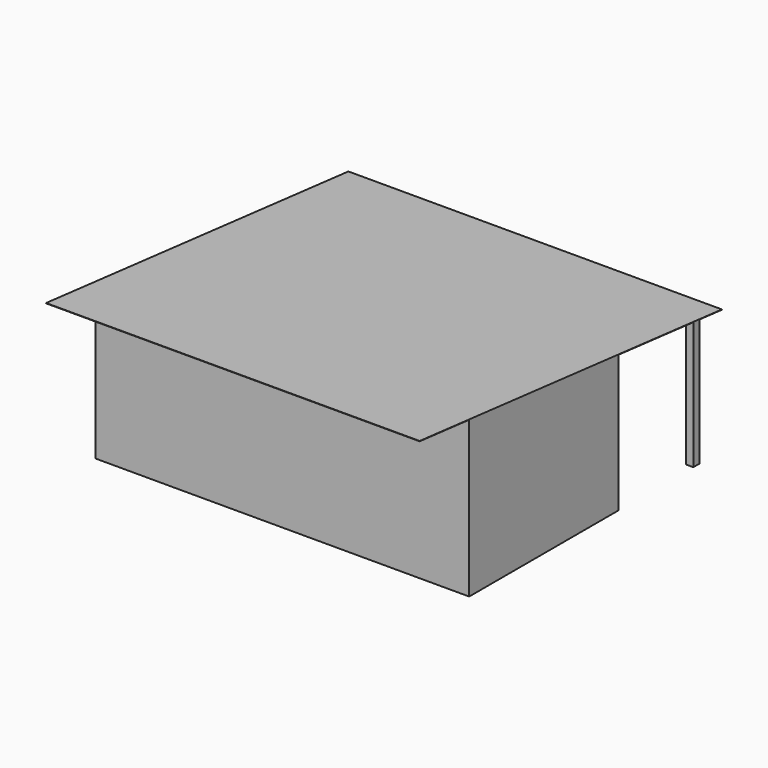
from build123d import *

# Parameters (mm, degrees)
F1_DEPTH = 3000
F2_W     = 2820
F2_H     = 2000
F3_DEPTH = 120


with BuildPart() as f1:
    # F0 (on Right) → F1 (new body, symmetric)
    with BuildSketch(Plane.YZ):
        Polygon((0, 2500), (0, 0), (3000, 0), (3000, 2200), align=None)
        Polygon((-995.03719, 2599.503719), (0, 2500), (3000, 2200), (4500, 2050), (4620, 2038), (5074.68967, 1992.531033), (5074.68967, 1997.555971), (-994.539672, 2604.478905), align=None)
        Polygon((4620, 2038), (4500, 2050), (4500, 0), (4620, 0), align=None)
    extrude(amount=F1_DEPTH, both=True)

    # F2 (on face) → F3 (cut, through all)
    with BuildSketch(Plane(origin=(0, 4620, 0), x_dir=(-1, 0, 0), z_dir=(0, 1, 0))):
        with Locations((-1470, 1000)):
            Rectangle(F2_W, F2_H)
        with Locations((1470, 1000)):
            Rectangle(F2_W, F2_H)
    extrude(amount=-F3_DEPTH, mode=Mode.SUBTRACT)


solid = f1.part
